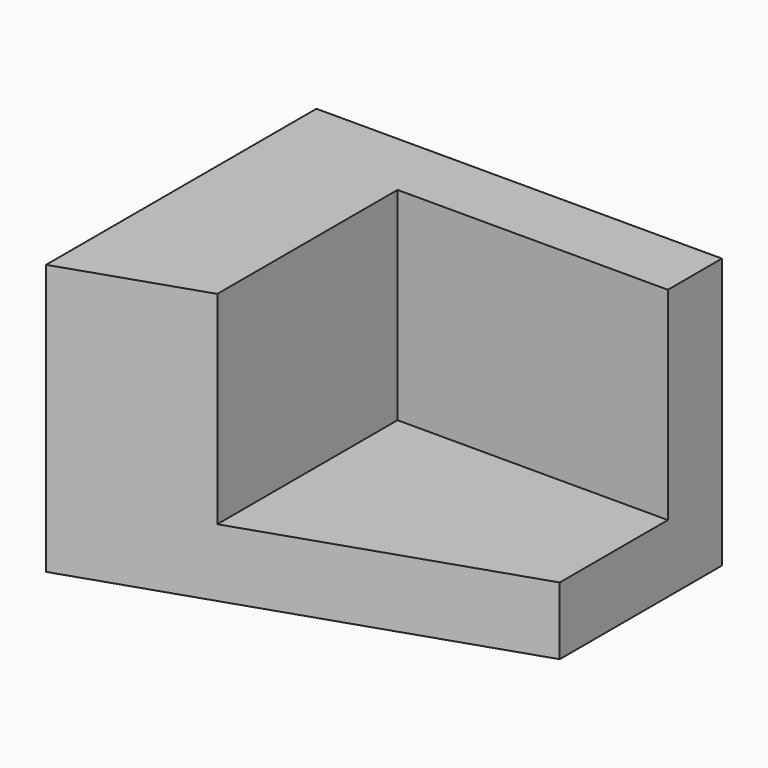
from build123d import *

# Parameters (mm, degrees)
F1_DEPTH = 63.5
F2_W     = 76.2
F2_H     = 50.8
F3_DEPTH = 12.7
F5_DEPTH = 50.8


with BuildPart() as f1:
    # F0 (on Front) → F1 (new body)
    with BuildSketch(Plane.XZ):
        Polygon((0, 50.8), (0, 0), (76.2, 0), (76.2, 12.7), (25.4, 12.7), (25.4, 50.8), align=None)
    extrude(amount=F1_DEPTH)

    # F2 (on Front) → F3 (join)
    with BuildSketch(Plane.XZ):
        with Locations((38.1, 25.4)):
            Rectangle(F2_W, F2_H)
    extrude(amount=F3_DEPTH)

    # F4 (on Top) → F5 (cut)
    with BuildSketch(Plane.XY):
        Polygon((76.2, -38.1), (0, -63.5), (76.2, -63.5), align=None)
    extrude(amount=F5_DEPTH, mode=Mode.SUBTRACT)


solid = f1.part
